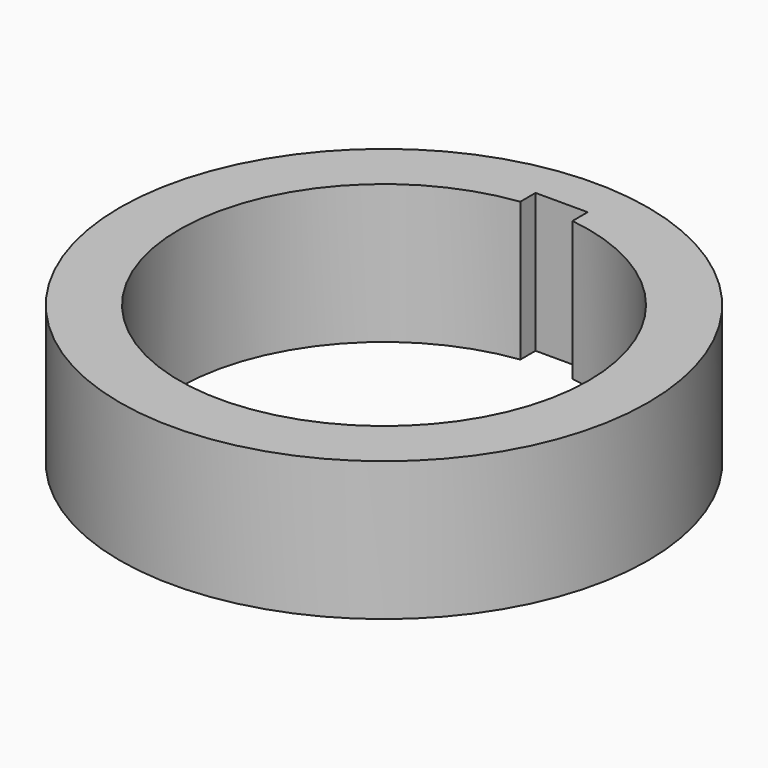
from build123d import *

# Parameters (mm, degrees)
F0_R     = 12.065
F1_DEPTH = 6.35


with BuildPart() as f1:
    # F0 (on Top) → F1 (new body)
    with BuildSketch(Plane.XY):
        Circle(F0_R)
        with BuildLine():
            ThreePointArc((1.190625, 9.27106), (7.017804, 6.174186), (9.3472, 0))
            ThreePointArc((9.3472, 0), (-6.174186, -7.017804), (-1.190625, 9.27106))
            Line((-1.190625, 9.27106), (-1.190625, 10.14095))
            Line((-1.190625, 10.14095), (1.190625, 10.14095))
            Line((1.190625, 10.14095), (1.190625, 9.27106))
        make_face(mode=Mode.SUBTRACT)
    extrude(amount=F1_DEPTH)


solid = f1.part
